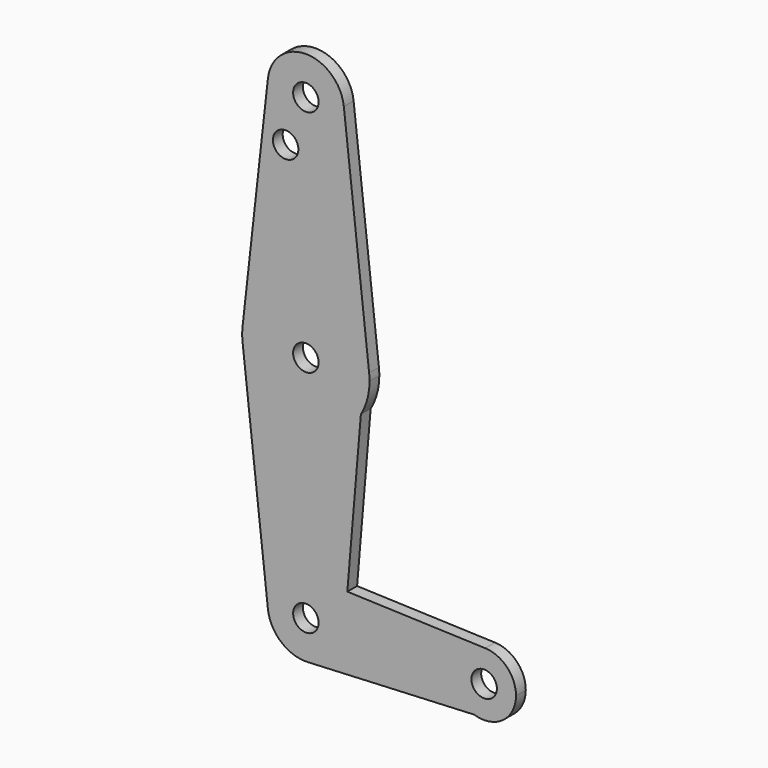
from build123d import *

# Parameters (mm, degrees)
F0_R     = 3.175
F1_DEPTH = 3.048


with BuildPart() as f1:
    # F0 (on Front) → F1 (new body)
    with BuildSketch(Plane.XZ):
        with BuildLine():
            ThreePointArc((-9.3377353474, 114.8733371782), (-0.4017019676, 104.3047599988), (9.6532857573, 113.8150038449))
            ThreePointArc((9.6532857573, 113.8150038449), (9.6385296034, 114.3449915698), (9.5943068621, 114.8733371782))
            ThreePointArc((9.5943068621, 114.8733371782), (0.1282857573, 123.3400038449), (-9.3377353474, 114.8733371782))
        make_face()
        with Locations((0.1282857573, 113.8150038449)):
            Circle(F0_R, mode=Mode.SUBTRACT)
        with BuildLine():
            ThreePointArc((9.5943068621, 114.8733371782), (9.6385296034, 114.3449915698), (9.6532857573, 113.8150038449))
            ThreePointArc((9.6532857573, 113.8150038449), (-0.4017019676, 104.3047599988), (-9.3377353474, 114.8733371782))
            Line((-9.3377353474, 114.8733371782), (-15.6484160839, 58.4288927338))
            ThreePointArc((-15.6484160839, 58.4288927338), (0.1282857573, 72.5400038449), (15.9049875986, 58.4288927338))
            Line((15.9049875986, 58.4288927338), (9.5943068621, 114.8733371782))
        make_face()
        with Locations((-4.9167615362, 101.7755642533)):
            Circle(F0_R, mode=Mode.SUBTRACT)
        with BuildLine():
            ThreePointArc((16.0032857573, 56.6650038449), (15.9786921674, 57.5483167198), (15.9049875986, 58.4288927338))
            ThreePointArc((15.9049875986, 58.4288927338), (0.1282857573, 72.5400038449), (-15.6484160839, 58.4288927338))
            ThreePointArc((-15.6484160839, 58.4288927338), (-15.7467142427, 56.6650038449), (-15.6484160839, 54.901114956))
            ThreePointArc((-15.6484160839, 54.901114956), (-3.1547522848, 41.1331885545), (13.841702443, 48.6676400413))
            ThreePointArc((13.841702443, 48.6676400413), (15.453365119, 52.5228344184), (16.0032857573, 56.6650038449))
        make_face()
        with Locations((0.1282857573, 56.6650038449)):
            Circle(F0_R, mode=Mode.SUBTRACT)
        with BuildLine():
            ThreePointArc((13.841702443, 48.6676400413), (-3.1547522848, 41.1331885545), (-15.6484160839, 54.901114956))
            Line((-15.6484160839, 54.901114956), (-9.3377353474, -1.5433294885))
            ThreePointArc((-9.3377353474, -1.5433294885), (-6.8566867352, 5.9907882976), (0.4684643288, 9.0339272892))
            Line((0.4684643288, 9.0339272892), (10.4616167976, 8.6768011551))
            Line((10.4616167976, 8.6768011551), (13.841702443, 48.6676400413))
        make_face()
        with BuildLine():
            ThreePointArc((0.4684643288, 9.0339272892), (-6.8566867352, 5.9907882976), (-9.3377353474, -1.5433294885))
            ThreePointArc((-9.3377353474, -1.5433294885), (-6.0518361204, -7.7328729874), (0.5792133295, -9.9993163791))
            ThreePointArc((0.5792133295, -9.9993163791), (6.7378620044, -7.3435037795), (9.6194442233, -1.2872030951))
            ThreePointArc((9.6194442233, -1.2872030951), (9.6448216131, -0.8864563723), (9.6532857573, -0.4849961551))
            ThreePointArc((9.6532857573, -0.4849961551), (6.982694043, 6.1288311826), (0.4684643288, 9.0339272892))
        make_face()
        with Locations((0.1282857573, -0.4849961551)):
            Circle(F0_R, mode=Mode.SUBTRACT)
        with BuildLine():
            Line((44.8617679002, 7.4474400485), (10.4616167976, 8.6768011551))
            Line((10.4616167976, 8.6768011551), (9.6194442233, -1.2872030951))
            ThreePointArc((9.6194442233, -1.2872030951), (6.7378620044, -7.3435037795), (0.5792133295, -9.9993163791))
            Line((0.5792133295, -9.9993163791), (42.1153856371, -8.030725361))
            ThreePointArc((42.1153856371, -8.030725361), (36.7628608303, 0.9017408276), (44.8617679002, 7.4474400485))
        make_face()
        with BuildLine():
            Line((9.6194442233, -1.2872030951), (10.4616167976, 8.6768011551))
            Line((10.4616167976, 8.6768011551), (0.4684643288, 9.0339272892))
            ThreePointArc((0.4684643288, 9.0339272892), (6.982694043, 6.1288311826), (9.6532857573, -0.4849961551))
            ThreePointArc((9.6532857573, -0.4849961551), (9.6448216131, -0.8864563723), (9.6194442233, -1.2872030951))
        make_face()
        with BuildLine():
            ThreePointArc((52.5157857573, -0.4849961551), (50.290292662, 5.0265266263), (44.8617679002, 7.4474400485))
            ThreePointArc((44.8617679002, 7.4474400485), (36.7628608303, 0.9017408276), (42.1153856371, -8.030725361))
            ThreePointArc((42.1153856371, -8.030725361), (49.2395429132, -6.9096819823), (52.5157857573, -0.4849961551))
        make_face()
        with Locations((44.5782857573, -0.4849961551)):
            Circle(F0_R, mode=Mode.SUBTRACT)
    extrude(amount=F1_DEPTH)


solid = f1.part
